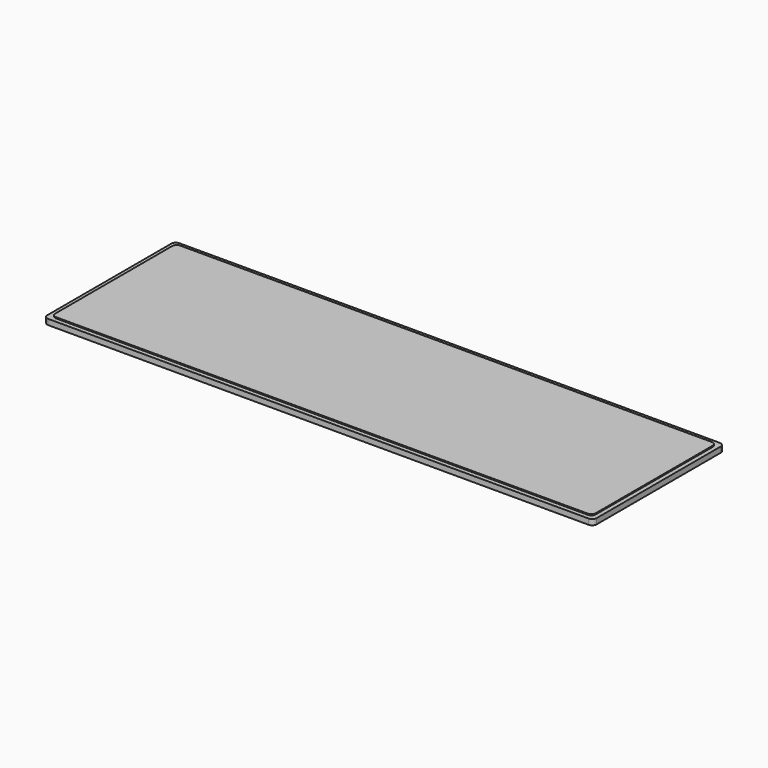
from build123d import *

# Parameters (mm, degrees)
SKETCH_W      = 248
SKETCH_H      = 74
PAD_DEPTH     = 3
FILLET_R      = 2
SKETCH001_W   = 248
SKETCH001_H   = 74
SKETCH001_W_2 = 244
SKETCH001_H_2 = 70
POCKET_DEPTH  = 0.5
FILLET001_R   = 2


with BuildPart() as part:
    # Sketch → Pad (new body)
    with BuildSketch(Plane.XY):
        Rectangle(SKETCH_W, SKETCH_H)
    extrude(amount=PAD_DEPTH)

    # Fillet
    fillet_edges = [part.edges().sort_by_distance(p)[0] for p in [
        (124, -37, 1.5),
        (124, 37, 1.5),
        (-124, 37, 1.5),
        (-124, -37, 1.5),
    ]]
    fillet(fillet_edges, radius=FILLET_R)

    # Sketch001 (on Face5 of Fillet) → Pocket (cut)
    with BuildSketch(Plane.XY.offset(3)):
        Rectangle(SKETCH001_W, SKETCH001_H)
        Rectangle(SKETCH001_W_2, SKETCH001_H_2, mode=Mode.SUBTRACT)
    extrude(amount=-POCKET_DEPTH, mode=Mode.SUBTRACT)

    # Fillet001
    fillet001_edges = [part.edges().sort_by_distance(p)[0] for p in [
        (122, -35, 2.75),
        (122, 35, 2.75),
        (-122, -35, 2.75),
        (-122, 35, 2.75),
    ]]
    fillet(fillet001_edges, radius=FILLET001_R)


solid = part.part
